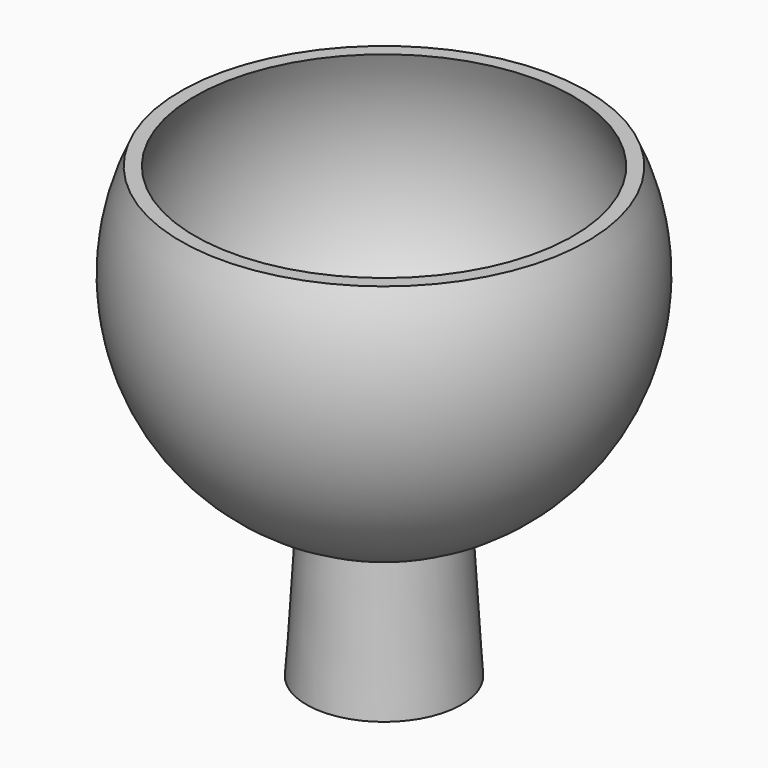
from build123d import *

# Parameters (mm, degrees)
F2_T     = -2.54
F3_R     = 12.954
F4_DEPTH = 25.4


with BuildPart() as f1:
    # F0 (on Right) → F1 (revolve)
    with BuildSketch(Plane.YZ):
        with BuildLine():
            Line((0, 41.783), (0, 0))
            Line((0, 0), (12.9495693602, 0))
            Line((12.9495693602, 0), (11.2833142379, 28.198163607))
            ThreePointArc((11.2833142379, 28.198163607), (11.8260483136, 30.1059090312), (13.4388892092, 31.2603773616))
            ThreePointArc((13.4388892092, 31.2603773616), (8.5341861118, 38.8393722942), (0, 41.783))
        make_face()
        with BuildLine():
            Line((11.2833142379, 28.198163607), (12.9495693602, 0))
            Line((12.9495693602, 0), (15.494, 0))
            Line((15.494, 0), (13.843, 27.94))
            ThreePointArc((13.843, 27.94), (13.7416009315, 29.6124391883), (13.4388892092, 31.2603773616))
            ThreePointArc((13.4388892092, 31.2603773616), (11.8260483136, 30.1059090312), (11.2833142379, 28.198163607))
        make_face()
        with BuildLine():
            Line((0, 44.323), (0, 41.783))
            ThreePointArc((0, 41.783), (8.5341861118, 38.8393722942), (13.4388892092, 31.2603773616))
            ThreePointArc((13.4388892092, 31.2603773616), (13.7416009315, 29.6124391883), (13.843, 27.94))
            ThreePointArc((13.843, 27.94), (15.1073491741, 28.3706806758), (16.3583276121, 28.838780693))
            ThreePointArc((16.3583276121, 28.838780693), (16.2510823708, 30.0148519891), (16.0593950001, 31.180142162))
            ThreePointArc((16.0593950001, 31.180142162), (10.3759201992, 40.6184450553), (0, 44.323))
        make_face()
        with BuildLine():
            Line((0, 89.7334072543), (0, 44.323))
            ThreePointArc((0, 44.323), (10.3759201992, 40.6184450553), (16.0593950001, 31.180142162))
            ThreePointArc((16.0593950001, 31.180142162), (39.8802110067, 55.6384087033), (38.1, 89.7334072543))
            Line((38.1, 89.7334072543), (0, 89.7334072543))
        make_face()
        with BuildLine():
            ThreePointArc((38.1, 89.7334072543), (39.8802110067, 55.6384087033), (16.0593950001, 31.180142162))
            ThreePointArc((16.0593950001, 31.180142162), (16.2510823708, 30.0148519891), (16.3583276121, 28.838780693))
            ThreePointArc((16.3583276121, 28.838780693), (41.7042111022, 54.0205943653), (40.64, 89.7334072543))
            Line((40.64, 89.7334072543), (38.1, 89.7334072543))
        make_face()
    revolve(axis=Axis((0, 0, 44.8667036272), (0, 0, -1)))

    # F2
    f2_openings = [f1.faces().sort_by_distance(p)[0] for p in [
        (0, 0, 89.733407),
    ]]
    offset(amount=F2_T, openings=f2_openings, kind=Kind.INTERSECTION)

    # F3 (on Top) → F4 (cut)
    with BuildSketch(Plane.XY):
        Circle(F3_R)
    extrude(amount=F4_DEPTH, mode=Mode.SUBTRACT)


with BuildPart() as f5:
    # F0 (on Right) → F5 (revolve)
    with BuildSketch(Plane.YZ):
        with BuildLine():
            Line((0, 44.323), (0, 41.783))
            ThreePointArc((0, 41.783), (8.5341861118, 38.8393722942), (13.4388892092, 31.2603773616))
            ThreePointArc((13.4388892092, 31.2603773616), (13.7416009315, 29.6124391883), (13.843, 27.94))
            ThreePointArc((13.843, 27.94), (15.1073491741, 28.3706806758), (16.3583276121, 28.838780693))
            ThreePointArc((16.3583276121, 28.838780693), (16.2510823708, 30.0148519891), (16.0593950001, 31.180142162))
            ThreePointArc((16.0593950001, 31.180142162), (10.3759201992, 40.6184450553), (0, 44.323))
        make_face()
    revolve(axis=Axis((0, 0, 44.8667036272), (0, 0, -1)))


solid = Compound([f1.part, f5.part])
